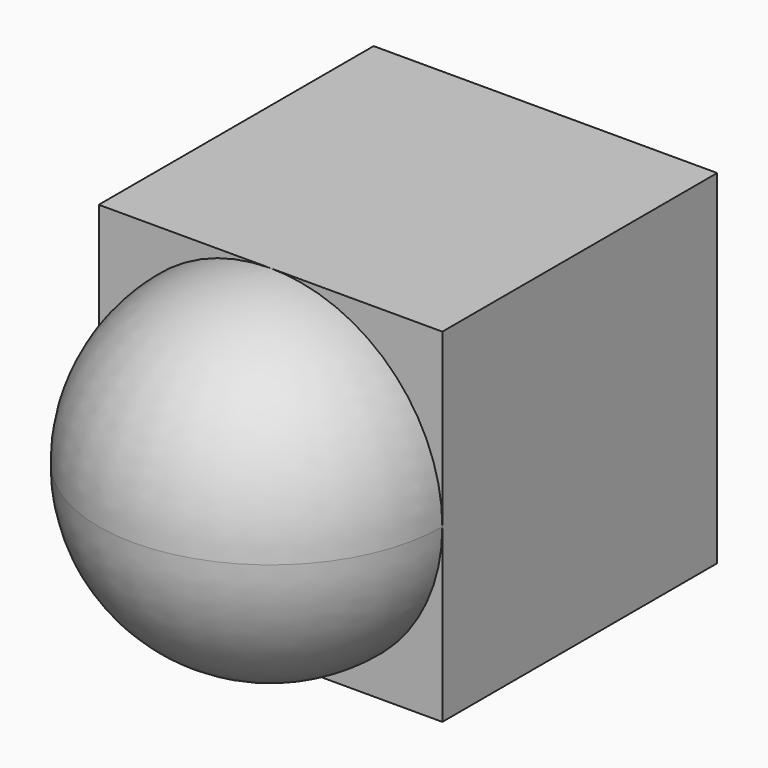
from build123d import *

# Parameters (mm, degrees)
F0_W     = 25.4
F0_H     = 25.4
F1_DEPTH = 25.4


with BuildPart() as f1:
    # F0 (on Front) → F1 (new body)
    with BuildSketch(Plane.XZ):
        Rectangle(F0_W, F0_H)
    extrude(amount=F1_DEPTH)

    # F2 (on face) → F3 (revolve)
    with BuildSketch(Plane.XZ.offset(25.4)):
        with BuildLine():
            Line((0, -12.7), (0, 12.7))
            ThreePointArc((0, 12.7), (-8.980256, 8.980256), (-12.7, 0))
            ThreePointArc((-12.7, 0), (-8.980256, -8.980256), (0, -12.7))
        make_face()
    revolve(axis=Axis((0, -25.4, 0), (0, 0, -1)))


solid = f1.part
